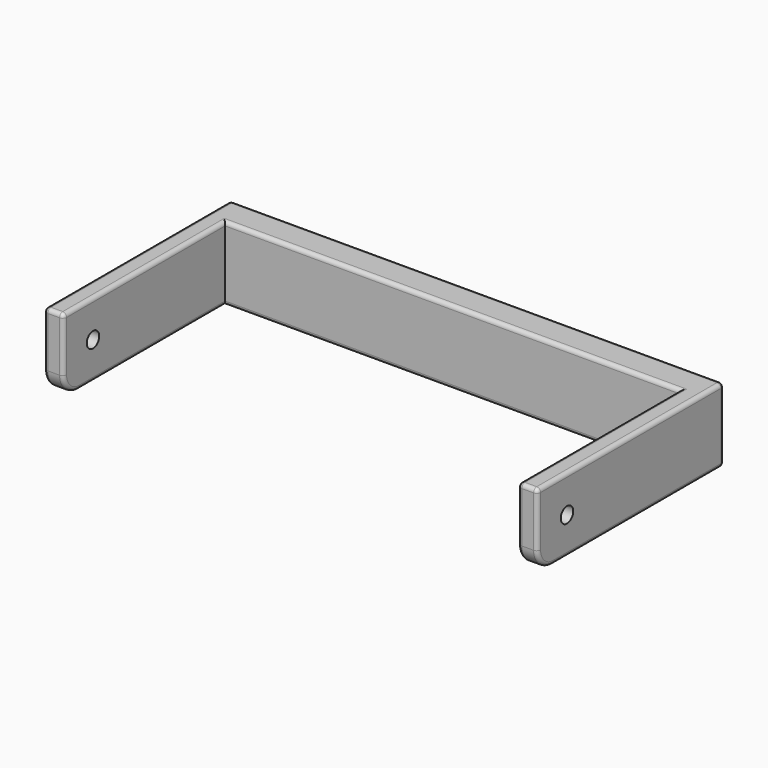
from build123d import *

# Parameters (mm, degrees)
PAD_DEPTH    = 19
FILLET_R     = 5
FILLET001_R  = 1
SKETCH001_R  = 2
POCKET_DEPTH = 127.001


with BuildPart() as part:
    # Sketch → Pad (new body)
    with BuildSketch(Plane.XY):
        Polygon((-104.21047, 0), (-99.21047, 0), (-99.21047, 52), (17.78953, 52), (17.78953, 0), (22.78953, 0), (22.78953, 60), (-104.21047, 60), align=None)
    extrude(amount=PAD_DEPTH)

    # Fillet
    fillet_edges = [part.edges().sort_by_distance(p)[0] for p in [
        (-101.71047, 0, 0),
        (20.28953, 0, 0),
    ]]
    fillet(fillet_edges, radius=FILLET_R)

    # Fillet001
    fillet001_edges = [part.edges().sort_by_distance(p)[0] for p in [
        (-40.71047, 52, 0),
        (17.78953, 28.5, 0),
        (-99.21047, 28.5, 0),
        (-99.21047, 26, 19),
        (-40.71047, 52, 19),
        (-104.21047, 32.5, 0),
        (-40.71047, 60, 0),
        (22.78953, 32.5, 0),
        (22.78953, 1.464466, 1.464466),
        (17.78953, 1.464466, 1.464466),
        (22.78953, 30, 19),
        (22.78953, 60, 9.5),
        (-40.71047, 60, 19),
        (-104.21047, 60, 9.5),
        (17.78953, 26, 19),
        (20.28953, 0, 19),
        (-101.71047, 0, 19),
        (-104.21047, 0, 12),
        (-99.21047, 0, 12),
        (-104.21047, 30, 19),
        (22.78953, 0, 12),
        (17.78953, 0, 12),
        (-104.21047, 1.464466, 1.464466),
        (-99.21047, 1.464466, 1.464466),
    ]]
    fillet(fillet001_edges, radius=FILLET001_R)

    # Sketch001 → Pocket (cut, through all)
    with BuildSketch(Plane.YZ.offset(22.78953)):
        with Locations((9.5, 9.5)):
            Circle(SKETCH001_R)
    extrude(amount=-POCKET_DEPTH, mode=Mode.SUBTRACT)


solid = part.part
